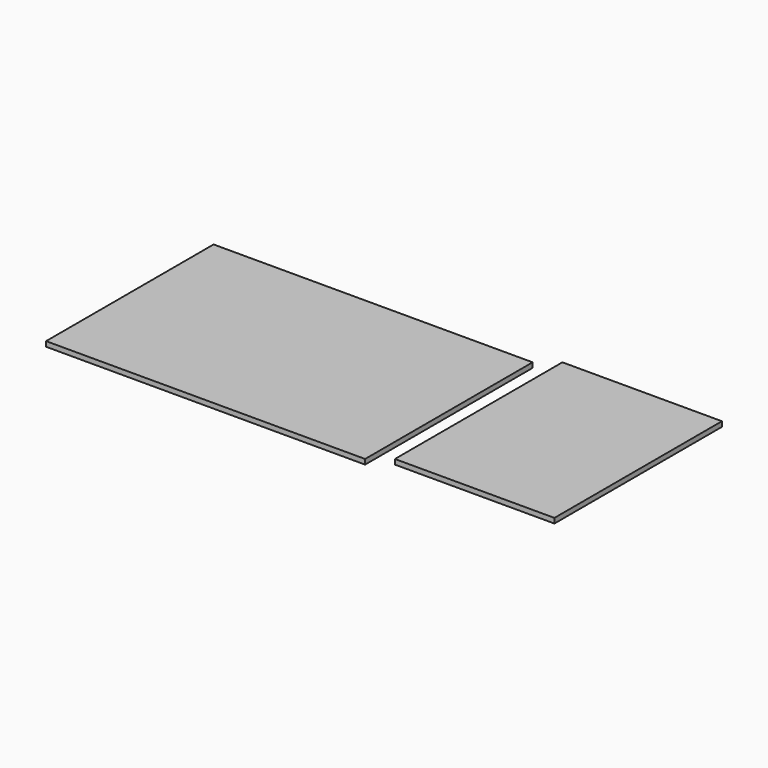
from build123d import *

# Parameters (mm, degrees)
F0_W     = 3200
F0_H     = 2100
F1_DEPTH = 50
F2_W     = 1600
F2_H     = 2100
F3_DEPTH = 50


with BuildPart() as f1:
    # F0 (on Top) → F1 (new body)
    with BuildSketch(Plane.XY):
        with Locations((-1008.786623, -549.474663)):
            Rectangle(F0_W, F0_H)
    extrude(amount=-F1_DEPTH)


with BuildPart() as f3:
    # F2 (on Top) → F3 (new body)
    with BuildSketch(Plane.XY):
        with Locations((1573.418051, -403.641526)):
            Rectangle(F2_W, F2_H)
    extrude(amount=-F3_DEPTH)


solid = Compound([f1.part, f3.part])
